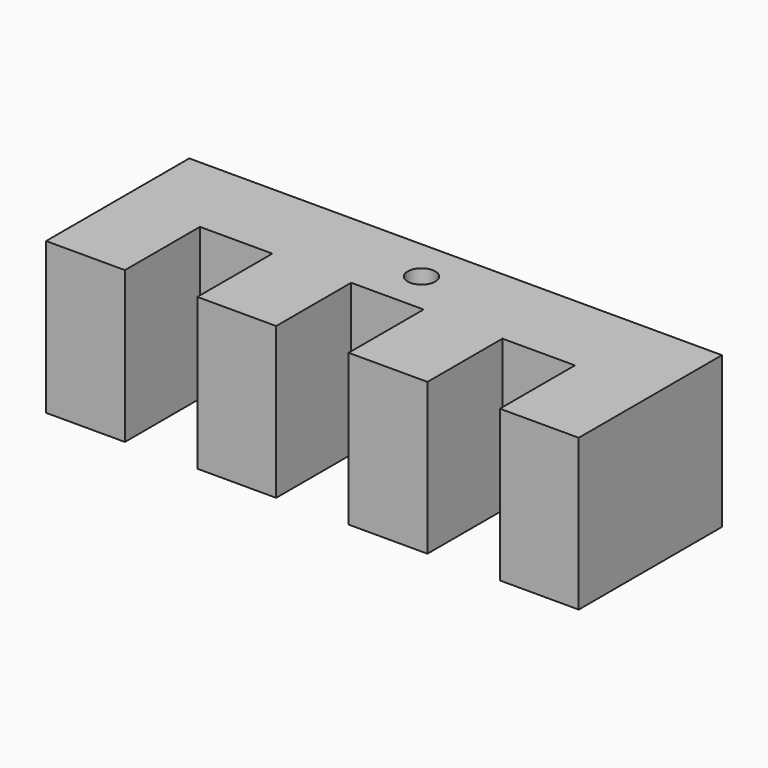
from build123d import *

# Parameters (mm, degrees)
F0_R     = 1.651
F1_DEPTH = 18.034


with BuildPart() as f1:
    # F0 (on Top) → F1 (new body)
    with BuildSketch(Plane.XY):
        Polygon((-54.102, 10.16), (-54.102, 0), (-54.102, -11.176), (-44.704, -11.176), (-44.704, 0), (-36.068, 0), (-36.068, -11.176), (-26.67, -11.176), (-26.67, 0), (-18.034, 0), (-18.034, -11.176), (-8.636, -11.176), (-8.636, 0), (0, 0), (0, -11.176), (9.398, -11.176), (9.398, 10.16), align=None)
        with Locations((-22.352, 5.08)):
            Circle(F0_R, mode=Mode.SUBTRACT)
    extrude(amount=F1_DEPTH)


solid = f1.part
